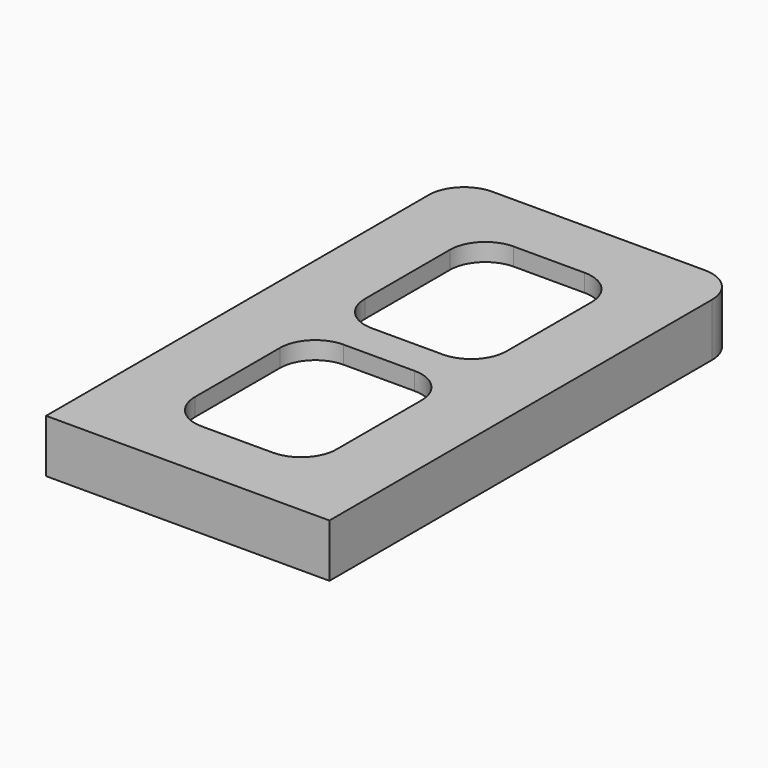
from build123d import *

# Parameters (mm, degrees)
F1_DEPTH = 5
F2_DEPTH = 15


with BuildPart() as f1:
    # F0 (on Top) → F1 (new body)
    with BuildSketch(Plane.XY):
        with BuildLine():
            ThreePointArc((40, 62.5), (37.071068, 69.571068), (30, 72.5))
            Line((30, 72.5), (-30, 72.5))
            ThreePointArc((-30, 72.5), (-37.071068, 69.571068), (-40, 62.5))
            Line((-40, 62.5), (-40, -72.5))
            Line((-40, -72.5), (40, -72.5))
            Line((40, -72.5), (40, 62.5))
        make_face()
        with BuildLine():
            Line((-25, 70), (25, 70))
            ThreePointArc((25, 70), (32.071068, 67.071068), (35, 60))
            Line((35, 60), (35, -60))
            ThreePointArc((35, -60), (32.071068, -67.071068), (25, -70))
            Line((25, -70), (-25, -70))
            ThreePointArc((-25, -70), (-32.071068, -67.071068), (-35, -60))
            Line((-35, -60), (-35, 60))
            ThreePointArc((-35, 60), (-32.071068, 67.071068), (-25, 70))
        make_face(mode=Mode.SUBTRACT)
        with BuildLine():
            ThreePointArc((35, 60), (32.071068, 67.071068), (25, 70))
            Line((25, 70), (-25, 70))
            ThreePointArc((-25, 70), (-32.071068, 67.071068), (-35, 60))
            Line((-35, 60), (-35, -60))
            ThreePointArc((-35, -60), (-32.071068, -67.071068), (-25, -70))
            Line((-25, -70), (25, -70))
            ThreePointArc((25, -70), (32.071068, -67.071068), (35, -60))
            Line((35, -60), (35, 60))
        make_face()
        with BuildLine():
            ThreePointArc((20, -45), (17.071068, -52.071068), (10, -55))
            Line((10, -55), (-10, -55))
            ThreePointArc((-10, -55), (-17.071068, -52.071068), (-20, -45))
            Line((-20, -45), (-20, -15))
            ThreePointArc((-20, -15), (-17.071068, -7.928932), (-10, -5))
            Line((-10, -5), (10, -5))
            ThreePointArc((10, -5), (17.071068, -7.928932), (20, -15))
            Line((20, -15), (20, -45))
        make_face(mode=Mode.SUBTRACT)
        with BuildLine():
            Line((-10, 55), (10, 55))
            ThreePointArc((10, 55), (17.071068, 52.071068), (20, 45))
            Line((20, 45), (20, 15))
            ThreePointArc((20, 15), (17.071068, 7.928932), (10, 5))
            Line((10, 5), (-10, 5))
            ThreePointArc((-10, 5), (-17.071068, 7.928932), (-20, 15))
            Line((-20, 15), (-20, 45))
            ThreePointArc((-20, 45), (-17.071068, 52.071068), (-10, 55))
        make_face(mode=Mode.SUBTRACT)
    extrude(amount=-F1_DEPTH)

    # F0 (on Top) → F2 (join)
    with BuildSketch(Plane.XY):
        with BuildLine():
            ThreePointArc((40, 62.5), (37.071068, 69.571068), (30, 72.5))
            Line((30, 72.5), (-30, 72.5))
            ThreePointArc((-30, 72.5), (-37.071068, 69.571068), (-40, 62.5))
            Line((-40, 62.5), (-40, -72.5))
            Line((-40, -72.5), (40, -72.5))
            Line((40, -72.5), (40, 62.5))
        make_face()
        with BuildLine():
            Line((-25, 70), (25, 70))
            ThreePointArc((25, 70), (32.071068, 67.071068), (35, 60))
            Line((35, 60), (35, -60))
            ThreePointArc((35, -60), (32.071068, -67.071068), (25, -70))
            Line((25, -70), (-25, -70))
            ThreePointArc((-25, -70), (-32.071068, -67.071068), (-35, -60))
            Line((-35, -60), (-35, 60))
            ThreePointArc((-35, 60), (-32.071068, 67.071068), (-25, 70))
        make_face(mode=Mode.SUBTRACT)
    extrude(amount=-F2_DEPTH)


solid = f1.part
